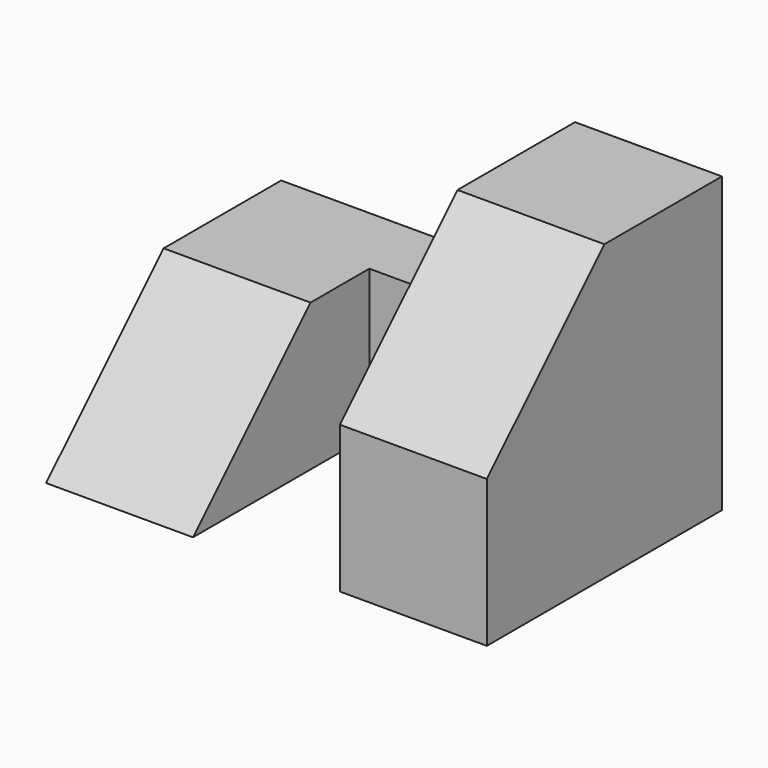
from build123d import *

# Parameters (mm, degrees)
F1_DEPTH = 12.7
F3_DEPTH = 25.4
F5_DEPTH = 12.7


with BuildPart() as f1:
    # F0 (on Right) → F1 (new body)
    with BuildSketch(Plane.YZ):
        Polygon((0, 12.7), (0, 0), (25.4, 0), (25.4, 25.4), (12.7, 25.4), align=None)
    extrude(amount=F1_DEPTH)


with BuildPart() as f3:
    # F2 (on Right) → F3 (new body)
    with BuildSketch(Plane.YZ):
        Polygon((12.7, 12.7), (0, 0), (25.4, 0), (25.4, 12.7), align=None)
    extrude(amount=-F3_DEPTH)

    # F4 (on Right) → F5 (cut)
    with BuildSketch(Plane.YZ):
        Polygon((12.7, 12.7), (0, 0), (19.05, 0), (19.05, 12.7), align=None)
    extrude(amount=-F5_DEPTH, mode=Mode.SUBTRACT)


solid = Compound([f1.part, f3.part])
